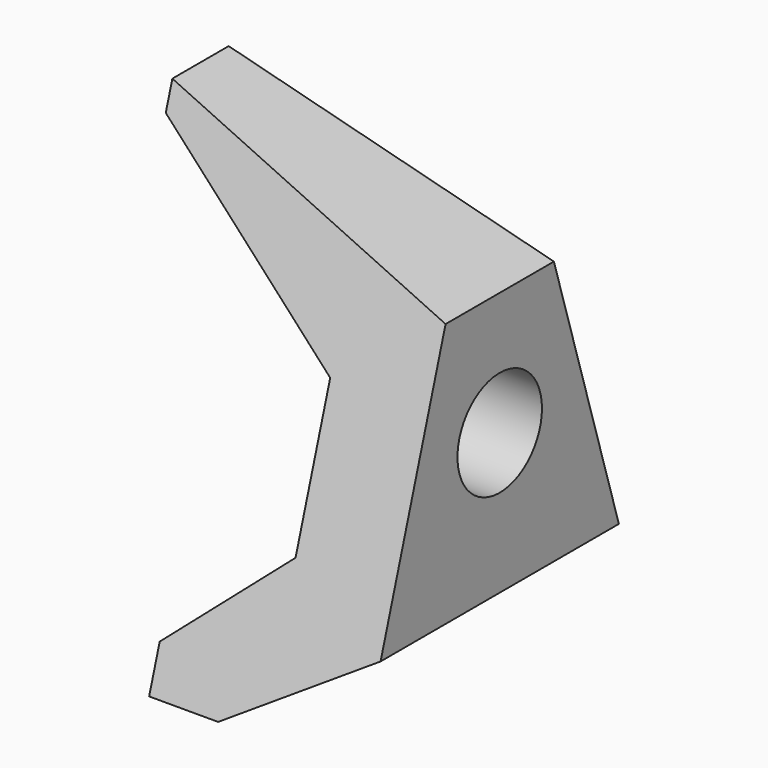
from build123d import *

# Parameters (mm, degrees)
F1_DEPTH = 4.25
F2_R     = 0.75
F3_DEPTH = 4.251
F5_DEPTH = 12.7


with BuildPart() as f1:
    # F0 (on Right) → F1 (new body)
    with BuildSketch(Plane.YZ):
        Polygon((0.5, 4), (-0.5, 4), (-2.5, -2.5), (2.5, -2.5), align=None)
    extrude(amount=F1_DEPTH)

    # F2 (on face) → F3 (cut, through all)
    with BuildSketch(Plane.YZ.offset(4.25)):
        with Locations((0, 0.75)):
            Circle(F2_R)
    extrude(amount=-F3_DEPTH, mode=Mode.SUBTRACT)

    # F4 (on Front) → F5 (cut, symmetric)
    with BuildSketch(Plane.XZ):
        Polygon((2.8575, 1.5), (0, 3.619), (0, -2.5), (1.27, -2.5), (1.27, -1.8904), (2.8575, -0.5), align=None)
        Polygon((4.25, 2.5), (4.25, 4), (0, 4), align=None)
        Polygon((2.25, -2.5), (4.25, -2.5), (4.25, -1.25), align=None)
    extrude(amount=F5_DEPTH, both=True, mode=Mode.SUBTRACT)


solid = f1.part
